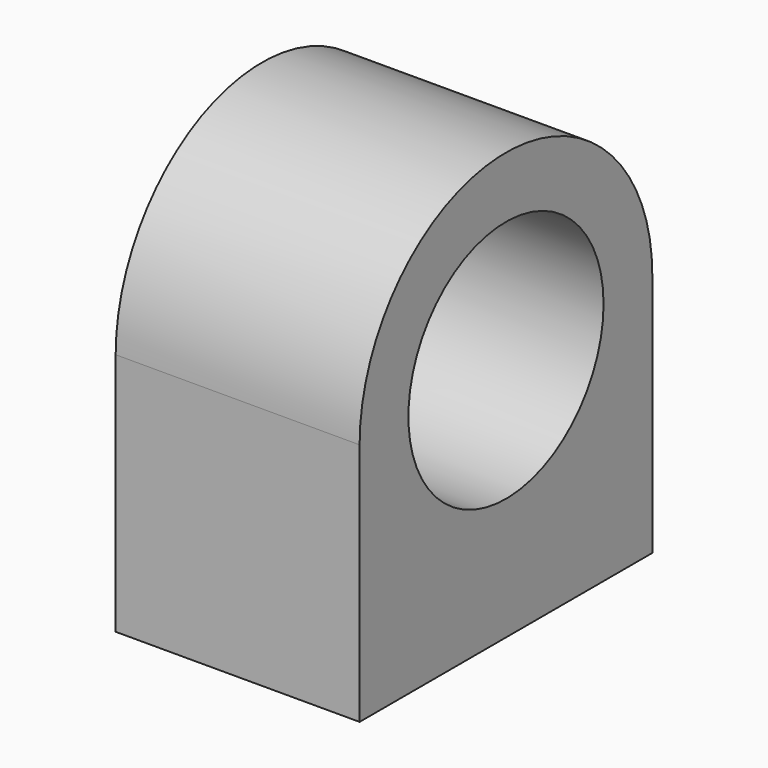
from build123d import *

# Parameters (mm, degrees)
F0_R     = 0.5
F1_DEPTH = 0.5
F2_R     = 0.125
F3_DEPTH = 0.5


with BuildPart() as f1:
    # F0 (on Right) → F1 (new body, symmetric)
    with BuildSketch(Plane.YZ):
        with BuildLine():
            Line((0.75, -1), (0.75, 0))
            ThreePointArc((0.75, 0), (0, 0.75), (-0.75, 0))
            Line((-0.75, 0), (-0.75, -1))
            Line((-0.75, -1), (0.75, -1))
        make_face()
        Circle(F0_R, mode=Mode.SUBTRACT)
    extrude(amount=F1_DEPTH, both=True)

    # F2 (on face) → F3 (cut)
    with BuildSketch(Plane(origin=(0, 0, -1), x_dir=(1, 0, 0), z_dir=(0, 0, -1))):
        with Locations((0, 0.5)):
            Circle(F2_R)
        with Locations((0, -0.5)):
            Circle(F2_R)
    extrude(amount=-F3_DEPTH, mode=Mode.SUBTRACT)


solid = f1.part
